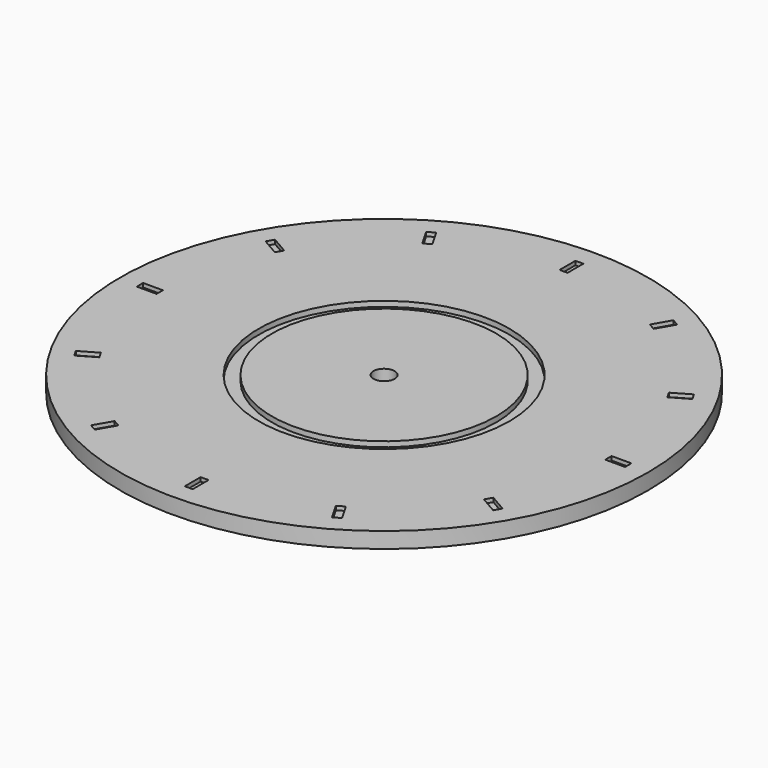
from build123d import *

# Parameters (mm, degrees)
EXTRUDE003_DEPTH = 1.5
ARRAY001_COUNT   = 12
SKETCH017_R      = 47.5
SKETCH017_R_2    = 42.5
EXTRUDE002_DEPTH = 2
SKETCH021_R      = 10
EXTRUDE004_DEPTH = 2.5
TUBE001_R        = 100
TUBE001_R_2      = 4
TUBE001_DEPTH    = 6


with BuildPart() as tenminutemarksarray:
    # Sketch014 → Extrude003 (new body)
    with BuildSketch(Plane.XY):
        with BuildLine():
            Line((-1.5, 84.986764), (-1.5, 92.487837))
            ThreePointArc((1.5, 92.487837), (0, 92.5), (-1.5, 92.487837))
            Line((1.5, 84.986764), (1.5, 92.487837))
            ThreePointArc((1.5, 84.986764), (0, 85), (-1.5, 84.986764))
        make_face()
    extrude(amount=-EXTRUDE003_DEPTH)

    # Array001: TenMinuteMarksArray ×12 about axis
    array001_axis = Axis((0, 0, 0), (0, 0, 1))


with BuildPart() as tenminutemarksarray_1:
    add(tenminutemarksarray.part)
    for i in range(1, ARRAY001_COUNT):
        add(tenminutemarksarray.part.rotate(array001_axis, i * 360 / ARRAY001_COUNT))


with BuildPart() as obj1:
    # Sketch017 → Extrude002 (new body)
    with BuildSketch(Plane.XY):
        Circle(SKETCH017_R)
        Circle(SKETCH017_R_2, mode=Mode.SUBTRACT)
    extrude(amount=-EXTRUDE002_DEPTH)


with BuildPart() as dialplatecutouts:
    # Sketch021 → Extrude004 (new body)
    with BuildSketch(Plane.XY.offset(-3.5)):
        with Locations((0, 35)):
            Circle(SKETCH021_R)
        with Locations((0, -35)):
            Circle(SKETCH021_R)
    extrude(amount=-EXTRUDE004_DEPTH)

    # Fusion: union TenMinuteMarksArray, obj1
    add(tenminutemarksarray_1.part)
    add(obj1.part)


with BuildPart() as dialplate:
    # Tube001 → Tube001 (new body)
    with BuildSketch(Plane.XY.offset(-6)):
        Circle(TUBE001_R)
        Circle(TUBE001_R_2, mode=Mode.SUBTRACT)
    extrude(amount=TUBE001_DEPTH)

    # Cut: cut DialPlateCutouts
    add(dialplatecutouts.part, mode=Mode.SUBTRACT)


solid = dialplate.part
